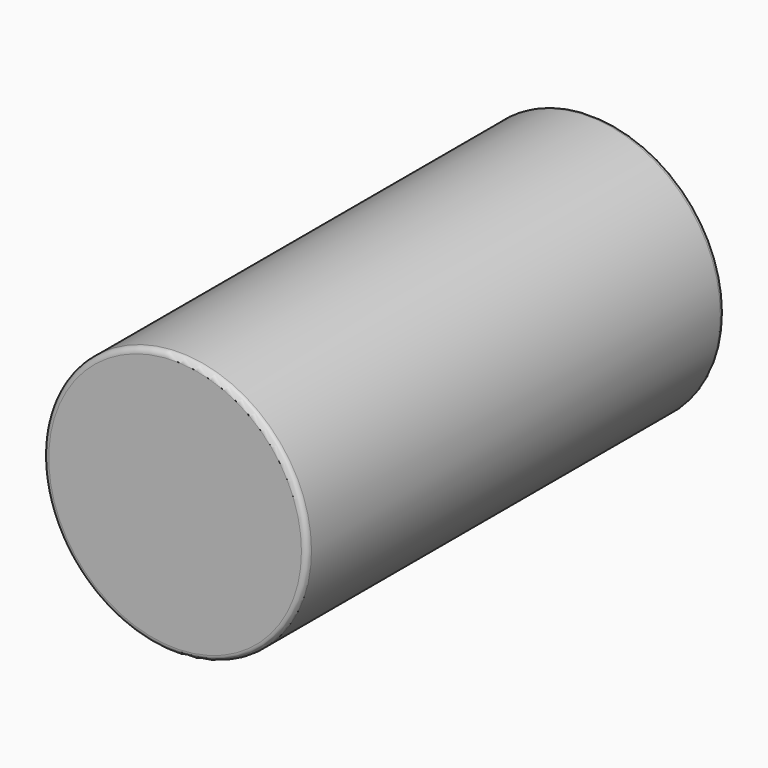
from build123d import *

# Parameters (mm, degrees)
F0_R     = 120
F0_R_2   = 62.5
F0_R_3   = 12.5
F1_DEPTH = 475
F2_R     = 5.08


with BuildPart() as f1:
    # F0 (on Front) → F1 (new body)
    with BuildSketch(Plane.XZ):
        Circle(F0_R)
        Circle(F0_R_2, mode=Mode.SUBTRACT)
        Circle(F0_R_2)
        Circle(F0_R_3, mode=Mode.SUBTRACT)
        Circle(F0_R_3)
    extrude(amount=-F1_DEPTH)

    # F2
    f2_edges = [f1.edges().sort_by_distance(p)[0] for p in [
        (-120, 0, 0),
        (-120, 475, 0),
    ]]
    fillet(f2_edges, radius=F2_R)


solid = f1.part
